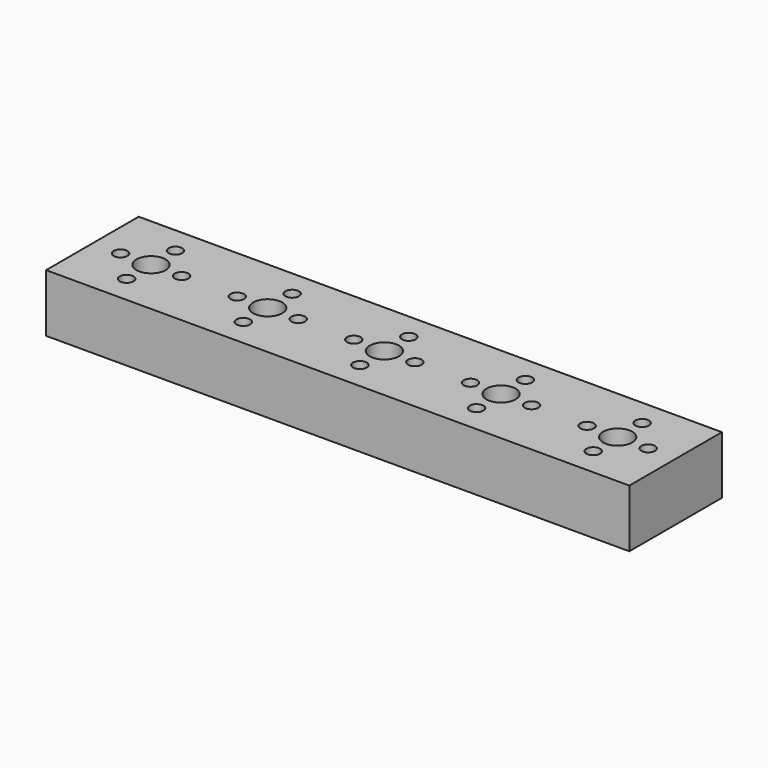
from build123d import *

# Parameters (mm, degrees)
F0_W     = 160
F0_H     = 31.75
F1_DEPTH = 15.875
F2_R     = 4
F2_R_2   = 1.875
F3_DEPTH = 25.4


with BuildPart() as f1:
    # F0 (on Top) → F1 (new body)
    with BuildSketch(Plane.XY):
        with Locations((-6.723825, -10.281647)):
            Rectangle(F0_W, F0_H)
    extrude(amount=F1_DEPTH)

    # F2 (on face) → F3 (cut)
    with BuildSketch(Plane.XY.offset(15.875)):
        with Locations((-70.723825, -10.156647)):
            Circle(F2_R)
        with Locations((-70.723825, -1.781647)):
            Circle(F2_R_2)
        with Locations((-79.098825, -10.156647)):
            Circle(F2_R_2)
        with Locations((-70.723825, -18.531647)):
            Circle(F2_R_2)
        with Locations((-62.348825, -10.156647)):
            Circle(F2_R_2)
        with Locations((-38.723825, -10.156647)):
            Circle(F2_R)
        with Locations((-38.723825, -1.781647)):
            Circle(F2_R_2)
        with Locations((-47.098825, -10.156647)):
            Circle(F2_R_2)
        with Locations((-38.723825, -18.531647)):
            Circle(F2_R_2)
        with Locations((-30.348825, -10.156647)):
            Circle(F2_R_2)
        with Locations((-6.723825, -10.156647)):
            Circle(F2_R)
        with Locations((-15.098825, -10.156647)):
            Circle(F2_R_2)
        with Locations((-6.723825, -1.781647)):
            Circle(F2_R_2)
        with Locations((-6.723825, -18.531647)):
            Circle(F2_R_2)
        with Locations((1.651175, -10.156647)):
            Circle(F2_R_2)
        with Locations((25.276175, -10.156647)):
            Circle(F2_R)
        with Locations((16.901175, -10.156647)):
            Circle(F2_R_2)
        with Locations((25.276175, -1.781647)):
            Circle(F2_R_2)
        with Locations((25.276175, -18.531647)):
            Circle(F2_R_2)
        with Locations((57.276175, -10.156647)):
            Circle(F2_R)
        with Locations((48.901175, -10.156647)):
            Circle(F2_R_2)
        with Locations((57.276175, -18.531647)):
            Circle(F2_R_2)
        with Locations((65.651175, -10.156647)):
            Circle(F2_R_2)
        with Locations((57.276175, -1.781647)):
            Circle(F2_R_2)
        with Locations((33.651175, -10.156647)):
            Circle(F2_R_2)
    extrude(amount=-F3_DEPTH, mode=Mode.SUBTRACT)


solid = f1.part
